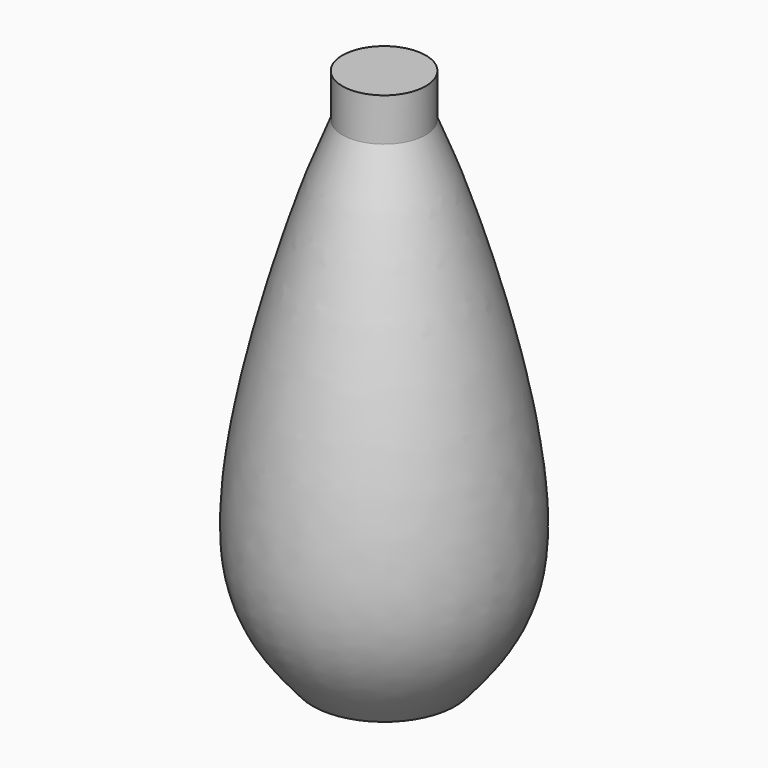
from build123d import *


with BuildPart() as f1:
    # F0 (on Front) → F1 (revolve)
    with BuildSketch(Plane.XZ):
        with BuildLine():
            Line((0, -109.6962599303), (0, 115.3037400697))
            Line((0, 115.3037400697), (-17.5, 115.3037400697))
            Line((-17.5, 115.3037400697), (-17.5, 97.2379297018))
            add(Edge.make_bspline(
                [(-17.5, 97.2379297018), (-21.1558859349, 88.3973969691), (-31.6123740217, 63.1118911177), (-67.4090599141, -65.8015670317), (-40.5128067064, -97.3608411056), (-30, -109.6962599303)],
                knots=[0, 0, 0, 0, 0.2466818439, 0.7055542234, 1, 1, 1, 1], degree=3))
            Line((-30, -109.6962599303), (0, -109.6962599303))
        make_face()
    revolve(axis=Axis((0, 0, 2.8037400697), (0, 0, -1)))


solid = f1.part
